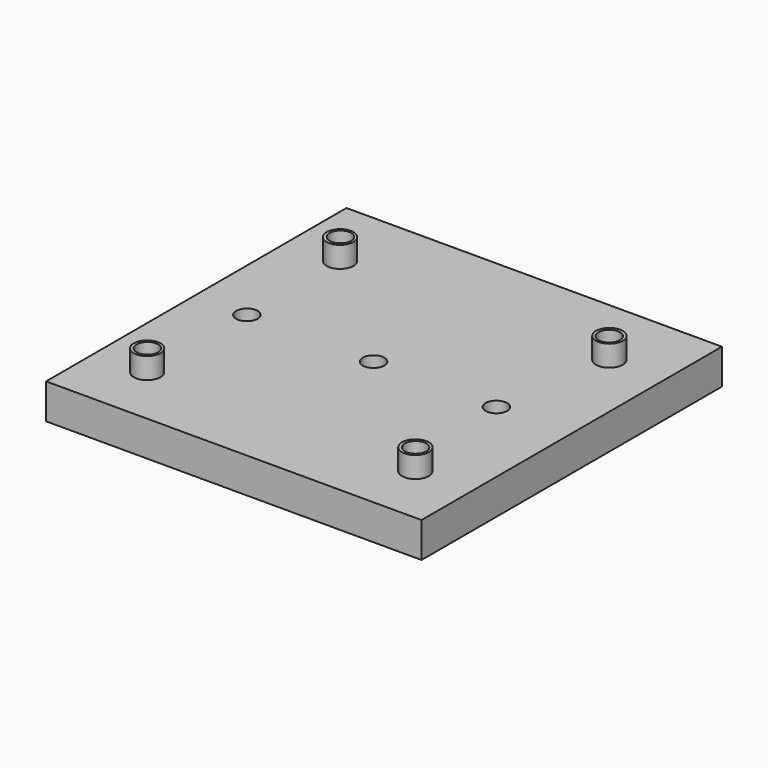
from build123d import *

# Parameters (mm, degrees)
SKETCH016_R      = 2.005
EXTRUDE074_DEPTH = 20
EXTRUDE073_DEPTH = 20
EXTRUDE072_DEPTH = 20
EXTRUDE071_DEPTH = 20
EXTRUDE070_DEPTH = 20
EXTRUDE069_DEPTH = 20
EXTRUDE068_DEPTH = 20
SKETCH015_R      = 2.5
EXTRUDE067_DEPTH = 8
SKETCH060_W      = 70
SKETCH060_H      = 6.56
EXTRUDE066_DEPTH = 70


with BuildPart() as tornillo015:
    # Sketch016 (on Face16 of Fusion001) → Extrude074 (new body)
    with BuildSketch(Plane.XY.offset(45.913223)):
        with Locations((-84.962639, 67.504814)):
            Circle(SKETCH016_R)
    extrude(amount=EXTRUDE074_DEPTH)


with BuildPart() as tornillo015_1:
    # Extrude074 placement: moved
    add(tornillo015.part.moved(Location((46.5, -21.8, -20.5))))


with BuildPart() as tornillo014:
    # Sketch016 (on Face16 of Fusion001) → Extrude073 (new body)
    with BuildSketch(Plane.XY.offset(45.913223)):
        with Locations((-84.962639, 67.504814)):
            Circle(SKETCH016_R)
    extrude(amount=EXTRUDE073_DEPTH)


with BuildPart() as tornillo014_1:
    # Extrude073 placement: moved
    add(tornillo014.part.moved(Location((23.6, -21.8, -20.6))))


with BuildPart() as tornillo013:
    # Sketch016 (on Face16 of Fusion001) → Extrude072 (new body)
    with BuildSketch(Plane.XY.offset(45.913223)):
        with Locations((-84.962639, 67.504814)):
            Circle(SKETCH016_R)
    extrude(amount=EXTRUDE072_DEPTH)


with BuildPart() as tornillo013_1:
    # Extrude072 placement: moved
    add(tornillo013.part.moved(Location((0, -21.8, -20.8))))


with BuildPart() as tornillo012:
    # Sketch016 (on Face16 of Fusion001) → Extrude071 (new body)
    with BuildSketch(Plane.XY.offset(45.913223)):
        with Locations((-84.962639, 67.504814)):
            Circle(SKETCH016_R)
    extrude(amount=EXTRUDE071_DEPTH)


with BuildPart() as tornillo012_1:
    # Extrude071 placement: moved
    add(tornillo012.part.moved(Location((0, -45, -17))))


with BuildPart() as tornillo011:
    # Sketch016 (on Face16 of Fusion001) → Extrude070 (new body)
    with BuildSketch(Plane.XY.offset(45.913223)):
        with Locations((-84.962639, 67.504814)):
            Circle(SKETCH016_R)
    extrude(amount=EXTRUDE070_DEPTH)


with BuildPart() as tornillo011_1:
    # Extrude070 placement: moved
    add(tornillo011.part.moved(Location((50, -45, -15))))


with BuildPart() as tornillo010:
    # Sketch016 (on Face16 of Fusion001) → Extrude069 (new body)
    with BuildSketch(Plane.XY.offset(45.913223)):
        with Locations((-84.962639, 67.504814)):
            Circle(SKETCH016_R)
    extrude(amount=EXTRUDE069_DEPTH)


with BuildPart() as tornillo010_1:
    # Extrude069 placement: moved
    add(tornillo010.part.moved(Location((0, 0, -15))))


with BuildPart() as tornillo009:
    # Sketch016 (on Face16 of Fusion001) → Extrude068 (new body)
    with BuildSketch(Plane.XY.offset(45.913223)):
        with Locations((-84.962639, 67.504814)):
            Circle(SKETCH016_R)
    extrude(amount=EXTRUDE068_DEPTH)


with BuildPart() as tornillo009_1:
    # Extrude068 placement: moved
    add(tornillo009.part.moved(Location((50.1, 0, -18))))


with BuildPart() as tornillos013:
    # Sketch015 (on Face16 of Fusion) → Extrude067 (new body)
    with BuildSketch(Plane.XY.offset(41.913223)):
        with Locations((-84.986267, 67.433998)):
            Circle(SKETCH015_R)
        with Locations((-85.013062, 22.499535)):
            Circle(SKETCH015_R)
        with Locations((-35.024185, 22.542374)):
            Circle(SKETCH015_R)
        with Locations((-34.910458, 67.59893)):
            Circle(SKETCH015_R)
    extrude(amount=EXTRUDE067_DEPTH)


with BuildPart() as tornillos013_1:
    # Extrude067 placement: moved
    add(tornillos013.part.moved(Location((0, 0, -4))))


with BuildPart() as obj1:
    # Sketch060 → Extrude066 (new body)
    with BuildSketch(Plane.YZ):
        with Locations((4.567114, 74.199239)):
            Rectangle(SKETCH060_W, SKETCH060_H)
    extrude(amount=EXTRUDE066_DEPTH)


with BuildPart() as obj1_1:
    # Extrude066 placement: moved
    add(obj1.part.moved(Location((-94.7, 41.5, -35.5))))

    # Fusion018: union Tornillos013
    add(tornillos013_1.part)

    # Cut036: cut Tornillo009
    add(tornillo009_1.part, mode=Mode.SUBTRACT)

    # Cut037: cut Tornillo010
    add(tornillo010_1.part, mode=Mode.SUBTRACT)

    # Cut038: cut Tornillo011
    add(tornillo011_1.part, mode=Mode.SUBTRACT)

    # Cut039: cut Tornillo012
    add(tornillo012_1.part, mode=Mode.SUBTRACT)

    # Cut040: cut Tornillo013
    add(tornillo013_1.part, mode=Mode.SUBTRACT)

    # Cut041: cut Tornillo014
    add(tornillo014_1.part, mode=Mode.SUBTRACT)

    # Cut042: cut Tornillo015
    add(tornillo015_1.part, mode=Mode.SUBTRACT)


solid = obj1_1.part
